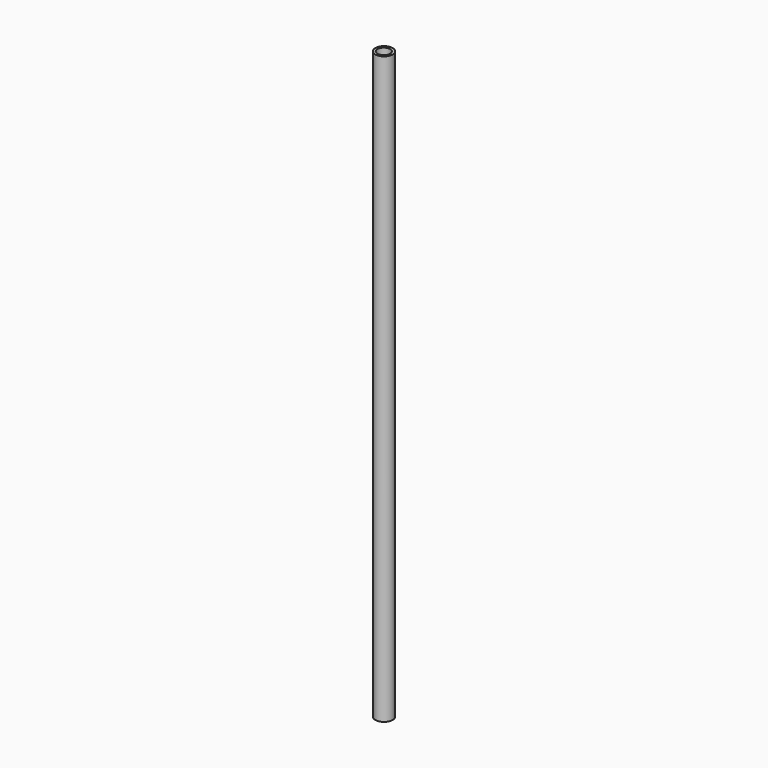
from build123d import *

# Parameters (mm, degrees)
SKETCH_R   = 14.967907
SKETCH_R_2 = 10.766147
PAD_DEPTH  = 1000


with BuildPart() as part:
    # Sketch (on XY_Plane of Origin) → Pad (new body)
    with BuildSketch(Plane.XY):
        Circle(SKETCH_R)
        with Locations((0, -0.449051)):
            Circle(SKETCH_R_2, mode=Mode.SUBTRACT)
    extrude(amount=PAD_DEPTH)


solid = part.part
